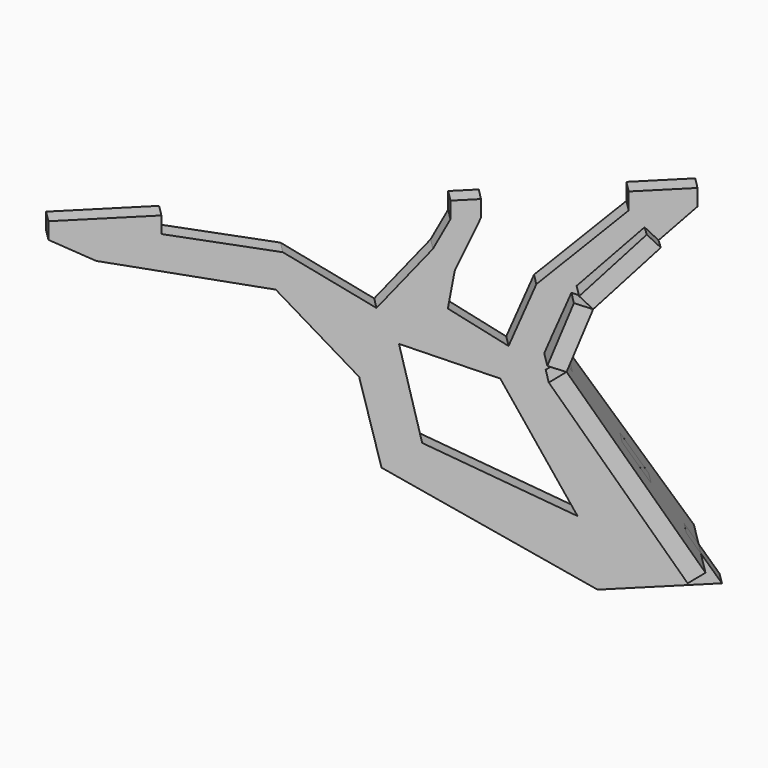
from build123d import *

# Parameters (mm, degrees)
F4_DEPTH  = 9.525
F7_DEPTH  = 19.05
F10_DEPTH = 19.05
F13_DEPTH = 19.05


with BuildPart() as f4:
    # F3 (on face) → F4 (new body, symmetric)
    with BuildSketch(Plane(origin=(-279.3999947591, 279.3999947591, 0), x_dir=(0.7071067812, 0.7071067812, 0), z_dir=(0.7071067812, -0.7071067812, 0))):
        Polygon((897.3434567451, 136.3937705755), (1094.939827919, 0), (1186.3460540771, 0), (1208.6477168529, 0), (1189.358932348, 31.6884212524), (1176.1695915607, 53.3564214732), (1159.8971501894, 43.4513645921), (1127.5925418344, 96.5227251898), (1143.8649832057, 106.4277820709), (1117.4493271998, 149.8245256533), (1101.1768858285, 139.9194687722), (1055.6292323309, 214.7470573498), (1071.9016737022, 224.6521142309), (1063.7216184457, 238.0906508463), (1069.7582830134, 252.7124149197), (1052.1499304135, 259.9821067094), (1062.9606344033, 286.1673554397), (1080.5689870032, 278.89766365), (1088.6071039683, 298.3672645432), (1104.2253679729, 312.5681619744), (1091.4097280895, 326.662908314), (1119.1245731748, 351.8626150331), (1131.9402130582, 337.7678686935), (1150.7756846557, 354.8940102509), (1186.3460540771, 387.35), (1186.3460540771, 406.4), (1123.4176158905, 406.4), (1123.4176158905, 386.9517445564), (1038.9261245728, 316.1987364292), (1013.5101079941, 254.3757259846), (957.9862356186, 295.9455251694), (964.3420577049, 334.4374001026), (988.3564114571, 387.35), (988.3564114571, 406.4), (960.3846669197, 406.4), (960.3846669197, 387.35), (944.3206191063, 357.8250706196), (892.7488923073, 300.2627193928), (807.0619106293, 362.3449802399), (696.0437893867, 387.35), (696.0437893867, 406.4), (592.6949977875, 406.4), (592.6949977875, 387.35), (636.4180100745, 363.230676916), (800.6214499474, 324.3786394596), (876.9047004259, 230.5688158366), align=None)
        Polygon((934.5138669014, 159.5804095268), (913.3108854294, 262.3189687729), (1005.9539079666, 221.4034497738), (1076.6055583954, 76.5143558383), align=None, mode=Mode.SUBTRACT)
    extrude(amount=F4_DEPTH, both=True)


with BuildPart() as f7:
    # F6 (on offset) → F7 (new body)
    with BuildSketch(Plane(origin=(612.0851783568, 612.0851783568, 526.9035436733), x_dir=(-0.7969782038, 0.4577612549, 0.394056311), z_dir=(0.6040080651, 0.6040080651, 0.5199504924))):
        Polygon((173.4717456385, -502.1336774186), (180.7278261552, -488.1741275421), (158.2275823149, -476.4786515136), (35.4320899302, -684.9516838711), (69.294935102, -702.5533639585), (81.0159557293, -680.0039763552), (98.0058669167, -688.8352183822), (86.1978450266, -711.3393833118), (120.003664876, -728.9114220186), (220.2337926787, -508.7090643073), (197.7017916776, -496.9970811193), (190.445711161, -510.9566309957), align=None)
        Polygon((133.1024890396, -579.797734436), (150.0834169669, -588.6243070246), (126.5987740847, -633.8149402988), (109.6137951094, -624.9862620026), align=None, mode=Mode.SUBTRACT)
    extrude(amount=F7_DEPTH)


with BuildPart() as f10:
    # F9 (on offset) → F10 (new body)
    with BuildSketch(Plane(origin=(570.7938874194, 570.7938874194, -333.2664412264), x_dir=(-0.7568444507, 0.5644310097, -0.3295513811), z_dir=(0.6535950409, 0.6535950409, -0.3816111176))):
        Polygon((131.1431138105, 737.011034934), (149.2344141006, 743.9150810242), (154.8721425753, 729.1420280262), (178.5601790514, 738.1819142142), (150.8513402086, 797.3986505122), (131.6237899899, 790.0609859562), (139.1340680297, 770.3811209167), (121.3348176468, 763.5885276237), (113.822865863, 783.2727785269), (94.5900875045, 775.9331187955), (113.0905681789, 713.1898827074), (136.7832936769, 722.2315583313), align=None)
    extrude(amount=F10_DEPTH)


with BuildPart() as f13:
    # F12 (on offset) → F13 (new body)
    with BuildSketch(Plane(origin=(234.2996544458, 234.2996544458, -364.4211841152), x_dir=(0.8796092674, -0.2572591549, 0.4001315583), z_dir=(0.4756968959, 0.4756968959, -0.7398816976))):
        Polygon((307.9832494259, -1096.6058969498), (323.2985436916, -1085.2743387222), (338.4009601663, -1105.6861786289), (350.927054882, -1096.9924926758), (304.9959647405, -1025.9565364575), (288.4616432104, -1038.1902014502), (301.0194897652, -1055.1626682281), (285.7044041157, -1066.4942264557), (273.1484532493, -1049.5243217817), (256.6150398402, -1061.7573148601), (310.8306977873, -1126.0944195406), (323.090167196, -1117.0238206326), align=None)
    extrude(amount=F13_DEPTH)


solid = Compound([f4.part, f7.part, f10.part, f13.part])
